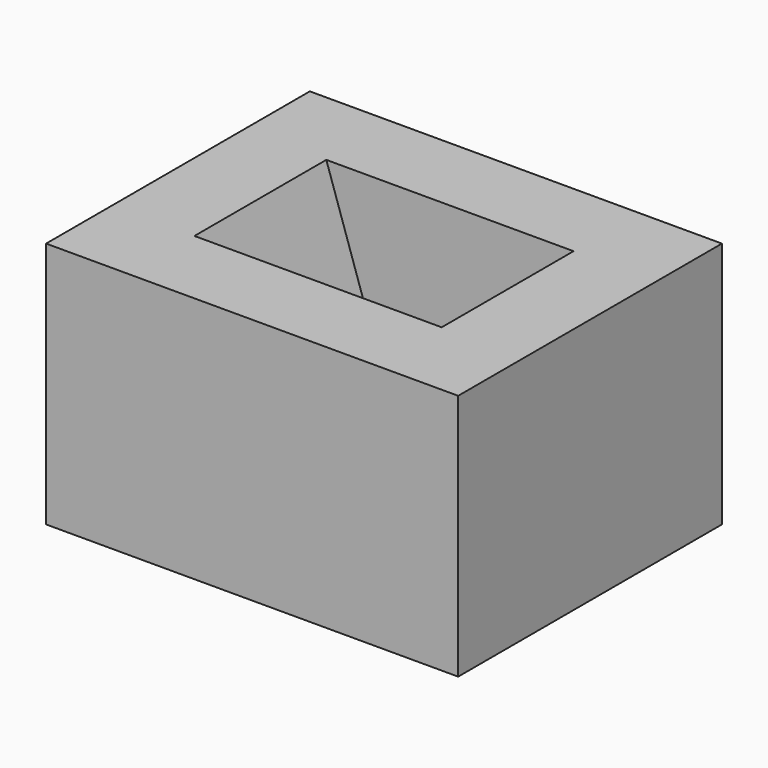
from build123d import *

# Parameters (mm, degrees)
F0_W     = 5
F0_H     = 4
F1_DEPTH = 3
F3_W     = 3
F3_H     = 2
F2_W     = 2
F2_H     = 2


with BuildPart() as f1:
    # F0 (on Top) → F1 (new body)
    with BuildSketch(Plane.XY):
        with Locations((2.5, 2)):
            Rectangle(F0_W, F0_H)
    extrude(amount=F1_DEPTH)

    # F3 (on face) → F4 section 0
    with BuildSketch(Plane.XY.offset(3)):
        with Locations((2.5, 2)):
            Rectangle(F3_W, F3_H)
    # F2 (on face) → F4 section 1
    with BuildSketch(Plane(origin=(0, 0, 0), x_dir=(1, 0, 0), z_dir=(0, 0, -1))):
        with Locations((3, -2)):
            Rectangle(F2_W, F2_H)
    loft(mode=Mode.SUBTRACT)


solid = f1.part
